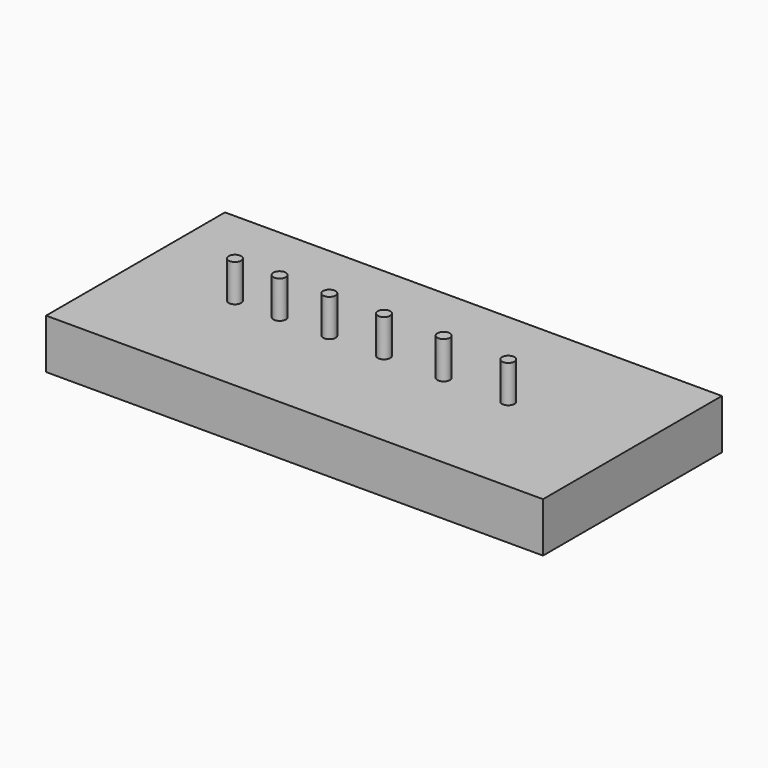
from build123d import *

# Parameters (mm, degrees)
F0_W     = 200
F0_H     = 90
F1_DEPTH = 20
F2_R     = 2.5
F3_DEPTH = 15


with BuildPart() as f1:
    # F0 (on Top) → F1 (new body)
    with BuildSketch(Plane.XY):
        Rectangle(F0_W, F0_H)
    extrude(amount=F1_DEPTH)

    # F2 (on face) → F3 (join)
    with BuildSketch(Plane.XY.offset(20)):
        with Locations((-60, 0)):
            Circle(F2_R)
        with Locations((-42, 0)):
            Circle(F2_R)
        with Locations((-22, 0)):
            Circle(F2_R)
        Circle(F2_R)
        with Locations((24, 0)):
            Circle(F2_R)
        with Locations((50, 0)):
            Circle(F2_R)
    extrude(amount=F3_DEPTH)


solid = f1.part
